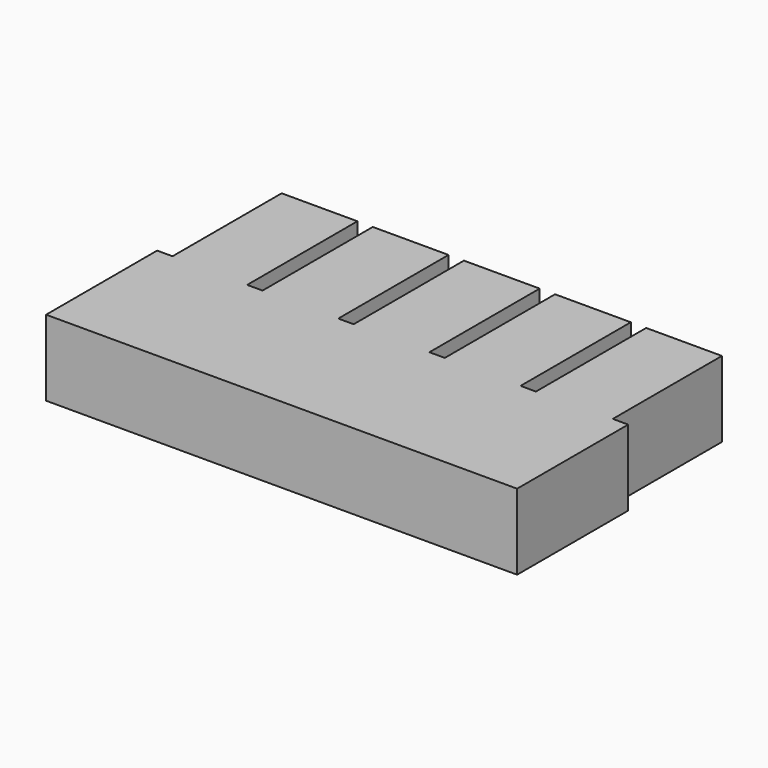
from build123d import *

# Parameters (mm, degrees)
F1_DEPTH = 12.7
F3_D     = 6.35
F3_DEPTH = 25.4
F3_TIP   = 1.9077324654


with BuildPart() as f1:
    # F0 (on Top) → F1 (new body)
    with BuildSketch(Plane.XY):
        Polygon((39.4914927714, -23.0438545598), (39.4914927714, 0.2341428303), (36.910995181, 0.2341428303), (36.910995181, 23.1056753299), (24.210995181, 23.1056753299), (24.210995181, 0), (21.6304975905, 0), (21.6304975905, 23.1056753299), (8.9304975905, 23.1056753299), (8.9304975905, 0), (6.35, 0), (6.35, 23.1056753299), (0, 23.1056753299), (-6.35, 23.1056753299), (-6.35, 0), (-8.9304975905, 0), (-8.9304975905, 23.1056753299), (-21.6304975905, 23.1056753299), (-21.6304975905, 0), (-24.210995181, 0), (-24.210995181, 23.1056753299), (-36.910995181, 23.1056753299), (-36.910995181, 0.2341428303), (-39.4914927714, 0.2341428303), (-39.4914927714, -23.0438545598), (0, -23.0438545598), align=None)
    extrude(amount=F1_DEPTH)

    # F3
    with Locations(Plane(origin=(0, 23.1056753299, 0), x_dir=(-1, 0, 0), z_dir=(0, 1, 0))):
        with Locations((-30.560995181, 6.35)):
            Hole(F3_D / 2, depth=F3_DEPTH)
            with Locations((0, 0, -(F3_DEPTH + F3_TIP / 2))):  # 118° drill point
                Cone(0, F3_D / 2, F3_TIP, mode=Mode.SUBTRACT)


solid = f1.part
